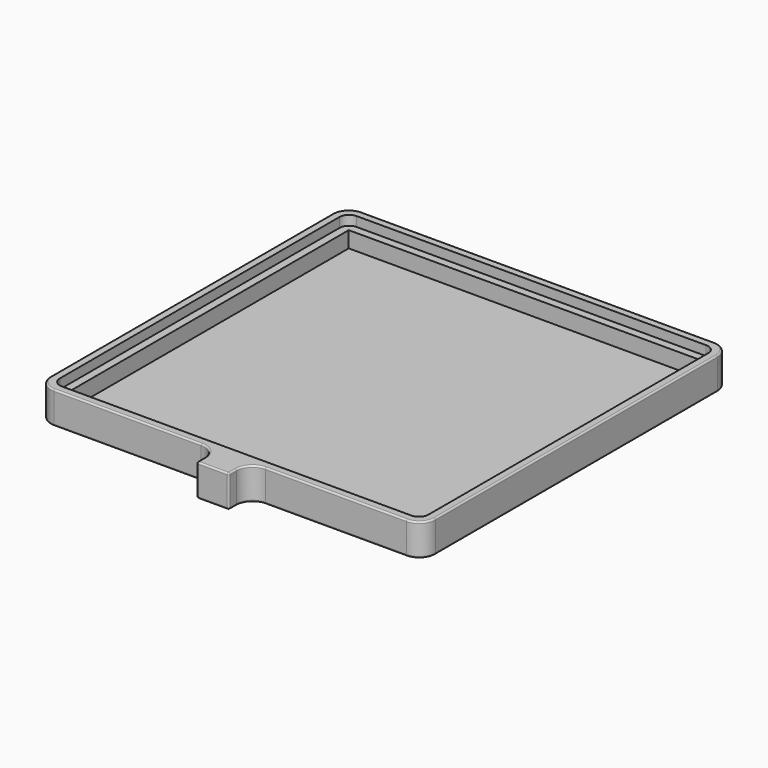
from build123d import *

# Parameters (mm, degrees)
F0_W     = 110
F0_H     = 110
F1_DEPTH = 2
F2_DEPTH = 7
F0_W_2   = 10
F0_H_2   = 8
F3_DEPTH = 10
F4_R     = 5
F5_R     = 0.5


with BuildPart() as f1:
    # F0 (on Top) → F1 (new body)
    with BuildSketch(Plane.XY):
        Rectangle(F0_W, F0_H)
    extrude(amount=F1_DEPTH)


with BuildPart() as f2:
    # F0 (on Top) → F2 (new body)
    with BuildSketch(Plane.XY):
        with BuildLine():
            Line((-54.5, -57.5), (54.5, -57.5))
            ThreePointArc((54.5, -57.5), (56.62132, -56.62132), (57.5, -54.5))
            Line((57.5, -54.5), (57.5, 54.5))
            ThreePointArc((57.5, 54.5), (56.62132, 56.62132), (54.5, 57.5))
            Line((54.5, 57.5), (-54.5, 57.5))
            ThreePointArc((-54.5, 57.5), (-56.62132, 56.62132), (-57.5, 54.5))
            Line((-57.5, 54.5), (-57.5, -54.5))
            ThreePointArc((-57.5, -54.5), (-56.62132, -56.62132), (-54.5, -57.5))
        make_face()
        Rectangle(F0_W, F0_H, mode=Mode.SUBTRACT)
    extrude(amount=F2_DEPTH)

    # F0 (on Top) → F3 (join)
    with BuildSketch(Plane.XY):
        with BuildLine():
            Line((6, -60), (55, -60))
            ThreePointArc((55, -60), (58.535534, -58.535534), (60, -55))
            Line((60, -55), (60, 55))
            ThreePointArc((60, 55), (58.535534, 58.535534), (55, 60))
            Line((55, 60), (-55, 60))
            ThreePointArc((-55, 60), (-58.535534, 58.535534), (-60, 55))
            Line((-60, 55), (-60, -55))
            ThreePointArc((-60, -55), (-58.535534, -58.535534), (-55, -60))
            Line((-55, -60), (-4, -60))
            Line((-4, -60), (6, -60))
        make_face()
        with BuildLine():
            ThreePointArc((57.5, -54.5), (56.62132, -56.62132), (54.5, -57.5))
            Line((54.5, -57.5), (-54.5, -57.5))
            ThreePointArc((-54.5, -57.5), (-56.62132, -56.62132), (-57.5, -54.5))
            Line((-57.5, -54.5), (-57.5, 54.5))
            ThreePointArc((-57.5, 54.5), (-56.62132, 56.62132), (-54.5, 57.5))
            Line((-54.5, 57.5), (54.5, 57.5))
            ThreePointArc((54.5, 57.5), (56.62132, 56.62132), (57.5, 54.5))
            Line((57.5, 54.5), (57.5, -54.5))
        make_face(mode=Mode.SUBTRACT)
        with Locations((1, -64)):
            Rectangle(F0_W_2, F0_H_2)
    extrude(amount=F3_DEPTH)

    # F4
    f4_edges = [f2.edges().sort_by_distance(p)[0] for p in [
        (6, -60, 5),
        (-4, -60, 5),
    ]]
    fillet(f4_edges, radius=F4_R)

    # F5
    f5_edges = [f2.edges().sort_by_distance(p)[0] for p in [
        (6, -68, 5),
        (1, -68, 10),
        (-4, -68, 5),
        (1, -68, 0),
        (33, -60, 10),
        (60, 0, 0),
    ]]
    fillet(f5_edges, radius=F5_R)


solid = Compound([f1.part, f2.part])
